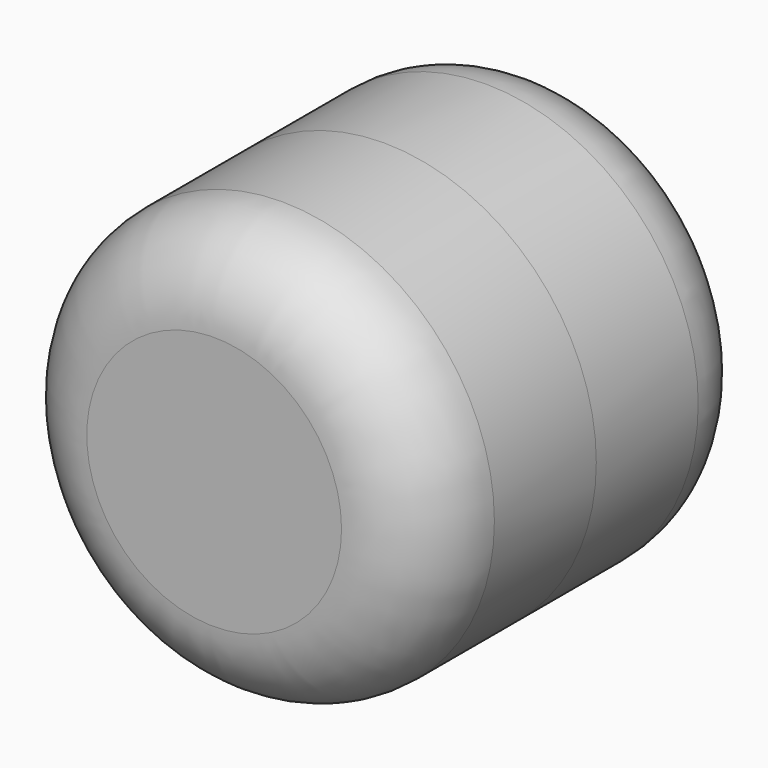
from build123d import *

# Parameters (mm, degrees)
F0_R     = 6.35
F1_DEPTH = 6.35
F2_R     = 6.35
F2_R_2   = 2.0574
F3_DEPTH = 6.35
F4_R     = 2.54


with BuildPart() as f1:
    # F0 (on Front) → F1 (new body)
    with BuildSketch(Plane.XZ):
        Circle(F0_R)
    extrude(amount=F1_DEPTH)

    # F2 (on face) → F3 (join)
    with BuildSketch(Plane(origin=(0, 0, 0), x_dir=(-1, 0, 0), z_dir=(0, 1, 0))):
        Circle(F2_R)
        Circle(F2_R_2, mode=Mode.SUBTRACT)
    extrude(amount=F3_DEPTH)

    # F4
    f4_edges = [f1.edges().sort_by_distance(p)[0] for p in [
        (-6.35, -6.35, 0),
        (6.35, 6.35, 0),
    ]]
    fillet(f4_edges, radius=F4_R)


solid = f1.part
